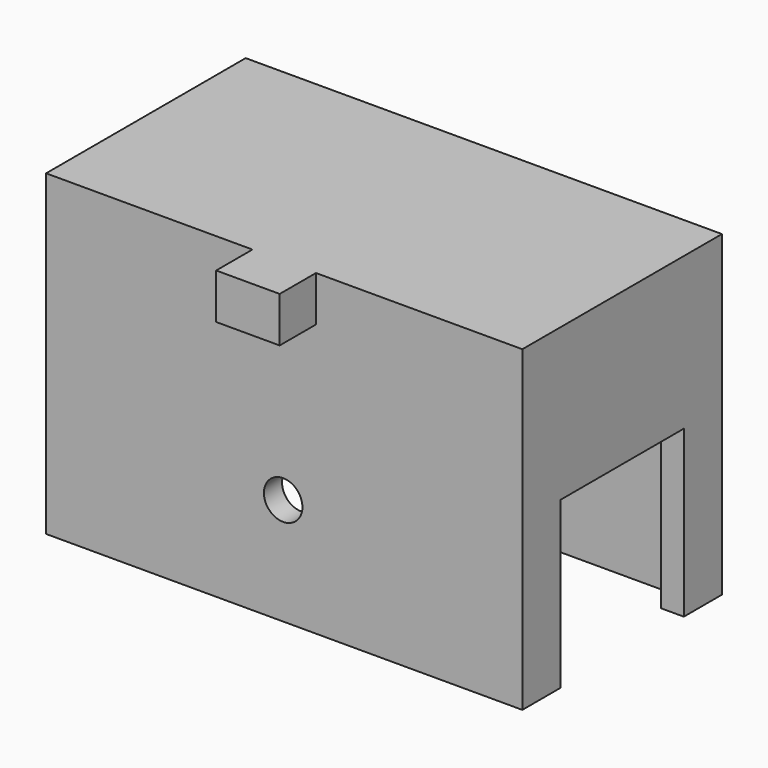
from build123d import *

# Parameters (mm, degrees)
SKETCH_W        = 42
SKETCH_H        = 22
PAD_DEPTH       = 28
SKETCH001_W     = 38
SKETCH001_H     = 18
POCKET_DEPTH    = 26
SKETCH002_W     = 5.6
SKETCH002_H     = 4
PAD001_DEPTH    = 4
SKETCH003_W     = 13.6
SKETCH003_H     = 14.6
POCKET001_DEPTH = 45
SKETCH004_R     = 1.7
POCKET002_DEPTH = 5


with BuildPart() as part:
    # Sketch → Pad (new body)
    with BuildSketch(Plane.XY):
        Rectangle(SKETCH_W, SKETCH_H)
    extrude(amount=PAD_DEPTH)

    # Sketch001 (on Face5 of Pad) → Pocket (cut)
    with BuildSketch(Plane(origin=(0, 0, 0), x_dir=(1, 0, 0), z_dir=(0, 0, -1))):
        Rectangle(SKETCH001_W, SKETCH001_H)
    extrude(amount=-POCKET_DEPTH, mode=Mode.SUBTRACT)

    # Sketch002 (on Face6 of Pocket) → Pad001 (join)
    with BuildSketch(Plane.XZ.offset(11)):
        with Locations((0, 26)):
            Rectangle(SKETCH002_W, SKETCH002_H)
    extrude(amount=PAD001_DEPTH)

    # Sketch003 (on Face2 of Pad001) → Pocket001 (cut)
    with BuildSketch(Plane(origin=(-21, 0, 0), x_dir=(0, -1, 0), z_dir=(-1, 0, 0))):
        with Locations((0, 7.3)):
            Rectangle(SKETCH003_W, SKETCH003_H)
    extrude(amount=-POCKET001_DEPTH, mode=Mode.SUBTRACT)

    # Sketch004 (on Face18 of Pocket001) → Pocket002 (cut)
    with BuildSketch(Plane(origin=(0, -9, 0), x_dir=(-1, 0, 0), z_dir=(0, 1, 0))):
        with Locations((0.093022, 9.434252)):
            Circle(SKETCH004_R)
    extrude(amount=-POCKET002_DEPTH, mode=Mode.SUBTRACT)


solid = part.part
